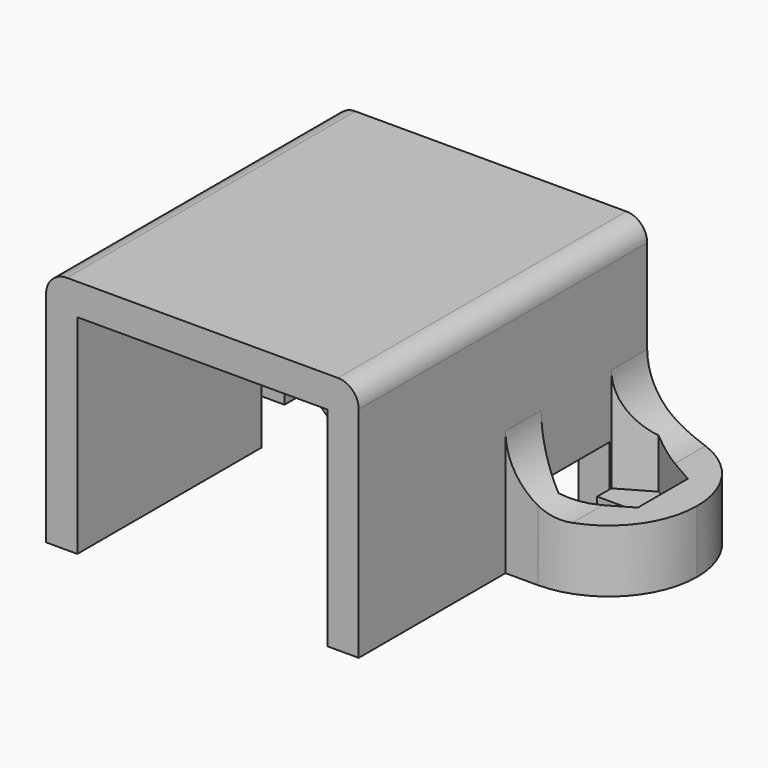
from build123d import *

# Parameters (mm, degrees)
F1_DEPTH  = 17.3
F3_DEPTH  = 11.501
F5_DEPTH  = 3
F8_DEPTH  = 10.501
F9_W      = 3
F9_H      = 9.6
F9_H_2    = 1
F10_DEPTH = 10


with BuildPart() as f1:
    # F0 (on Front) → F1 (new body)
    with BuildSketch(Plane.XZ):
        with BuildLine():
            Line((6.5, 11.5), (0, 11.5))
            Line((0, 11.5), (-6.5, 11.5))
            ThreePointArc((-6.5, 11.5), (-7.207107, 11.207107), (-7.5, 10.5))
            Line((-7.5, 10.5), (-7.5, 6))
            ThreePointArc((-7.5, 6), (-8.37868, 3.87868), (-10.5, 3))
            Line((-10.5, 3), (-13.3, 3))
            Line((-13.3, 3), (-13.3, 0))
            Line((-13.3, 0), (-6, 0))
            Line((-6, 0), (-6, 7))
            ThreePointArc((-6, 7), (-5.12132, 9.12132), (-3, 10))
            Line((-3, 10), (0, 10))
            Line((0, 10), (3, 10))
            ThreePointArc((3, 10), (5.12132, 9.12132), (6, 7))
            Line((6, 7), (6, 0))
            Line((6, 0), (13.3, 0))
            Line((13.3, 0), (13.3, 3))
            Line((13.3, 3), (10.5, 3))
            ThreePointArc((10.5, 3), (8.37868, 3.87868), (7.5, 6))
            Line((7.5, 6), (7.5, 10.5))
            ThreePointArc((7.5, 10.5), (7.207107, 11.207107), (6.5, 11.5))
        make_face()
    extrude(amount=F1_DEPTH)

    # F2 (on face) → F3 (intersect, through all)
    with BuildSketch(Plane.XY.offset(11.5)):
        with BuildLine():
            Line((6.5, 0), (-6.5, 0))
            Line((-6.5, 0), (-7.5, 0))
            Line((-7.5, 0), (-9.05, 0))
            ThreePointArc((-9.05, 0), (-12.055204, -1.244796), (-13.3, -4.25))
            ThreePointArc((-13.3, -4.25), (-12.055204, -7.255204), (-9.05, -8.5))
            Line((-9.05, -8.5), (-7.5, -8.5))
            Line((-7.5, -8.5), (-7.5, -17.3))
            Line((-7.5, -17.3), (-6.5, -17.3))
            Line((-6.5, -17.3), (6.5, -17.3))
            Line((6.5, -17.3), (7.5, -17.3))
            Line((7.5, -17.3), (7.5, -8.5))
            Line((7.5, -8.5), (9.05, -8.5))
            ThreePointArc((9.05, -8.5), (12.055204, -7.255204), (13.3, -4.25))
            ThreePointArc((13.3, -4.25), (12.055204, -1.244796), (9.05, 0))
            Line((9.05, 0), (7.5, 0))
            Line((7.5, 0), (6.5, 0))
        make_face()
    extrude(amount=-F3_DEPTH, mode=Mode.INTERSECT)

    # F4 (on face) → F5 (cut)
    with BuildSketch(Plane(origin=(0, 0, 0), x_dir=(1, 0, 0), z_dir=(0, 0, -1))):
        with BuildLine():
            Line((-7.5, 6.25), (-7.5, 5.5))
            Line((-7.5, 5.5), (-9.05, 5.5))
            ThreePointArc((-9.05, 5.5), (-10.3, 4.25), (-9.05, 3))
            Line((-9.05, 3), (-7.5, 3))
            Line((-7.5, 3), (-7.5, 2.25))
            Line((-7.5, 2.25), (-6, 2.25))
            Line((-6, 2.25), (-6, 6.25))
            Line((-6, 6.25), (-7.5, 6.25))
        make_face()
        with BuildLine():
            Line((7.5, 6.25), (6, 6.25))
            Line((6, 6.25), (6, 2.25))
            Line((6, 2.25), (7.5, 2.25))
            Line((7.5, 2.25), (7.5, 3))
            Line((7.5, 3), (9.05, 3))
            ThreePointArc((9.05, 3), (10.3, 4.25), (9.05, 5.5))
            Line((9.05, 5.5), (7.5, 5.5))
            Line((7.5, 5.5), (7.5, 6.25))
        make_face()
    extrude(amount=-F5_DEPTH, mode=Mode.SUBTRACT)

    # F7 (on offset) → F8 (cut, through all)
    with BuildSketch(Plane.XY.offset(1)):
        Polygon((-11.648076, -2.75), (-11.648076, -5.75), (-9.05, -7.25), (-7.5, -6.355107), (-7.5, -2.144893), (-9.05, -1.25), align=None)
        Polygon((7.5, -2.144893), (7.5, -6.355107), (9.05, -7.25), (11.648076, -5.75), (11.648076, -2.75), (9.05, -1.25), align=None)
    extrude(amount=F8_DEPTH, mode=Mode.SUBTRACT)

    # F9 (on face) → F10 (cut, through all)
    with BuildSketch(Plane(origin=(0, 0, 0), x_dir=(1, 0, 0), z_dir=(0, 0, -1))):
        with Locations((-4.5, 12.5)):
            Rectangle(F9_W, F9_H)
        with Locations((4.5, 16.8)):
            Rectangle(F9_W, F9_H_2)
        with Locations((4.5, 8.2)):
            Rectangle(F9_W, F9_H_2)
        with Locations((4.5, 11.2)):
            Rectangle(F9_W, F9_H_2)
    extrude(amount=-F10_DEPTH, mode=Mode.SUBTRACT)


solid = f1.part
